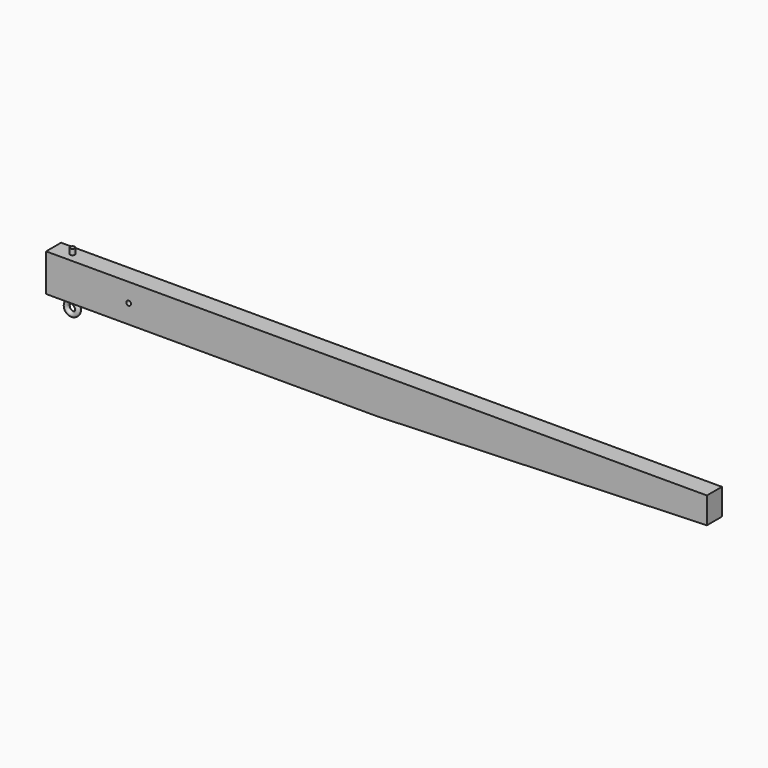
from build123d import *

# Parameters (mm, degrees)
F0_R     = 7.9375
F1_DEPTH = 31.75
F2_R     = 6.35
F3_DEPTH = 127.001
F6_R     = 7.9375


with BuildPart() as f1:
    # F0 (on Front) → F1 (new body, symmetric)
    with BuildSketch(Plane.XZ):
        Polygon((1955.8, 63.5), (-279.4, 63.5), (-279.4, -63.5), (838.2, -63.5), (1955.8, -25.4), align=None)
        Circle(F0_R, mode=Mode.SUBTRACT)
    extrude(amount=F1_DEPTH, both=True)

    # F2 (on face) → F3 (cut, through all)
    with BuildSketch(Plane.XY.offset(63.5)):
        with Locations((-215.9, 0)):
            Circle(F2_R)
    extrude(amount=-F3_DEPTH, mode=Mode.SUBTRACT)


with BuildPart() as f7:
    # F7: sweep along a path in F4
    with BuildLine(Plane.XZ) as f7_path:
        Line((-215.9, 82.55), (-215.9, -63.5))
        ThreePointArc((-215.9, -63.5), (-213.3477839421, -73.025), (-206.375, -79.9977839421))
        ThreePointArc((-206.375, -79.9977839421), (-215.9, -115.5455678842), (-225.425, -79.9977839421))
        Line((-225.425, -79.9977839421), (-222.0080379799, -78.025))
    # F6 (on line) → F7 (sweep)
    with BuildSketch(Plane(origin=(0, 0, 82.55), x_dir=(1, 0, 0), z_dir=(0, 0, -1))):
        with Locations((-215.9, 0)):
            Circle(F6_R)
    sweep(path=f7_path.line)


solid = Compound([f1.part, f7.part])
